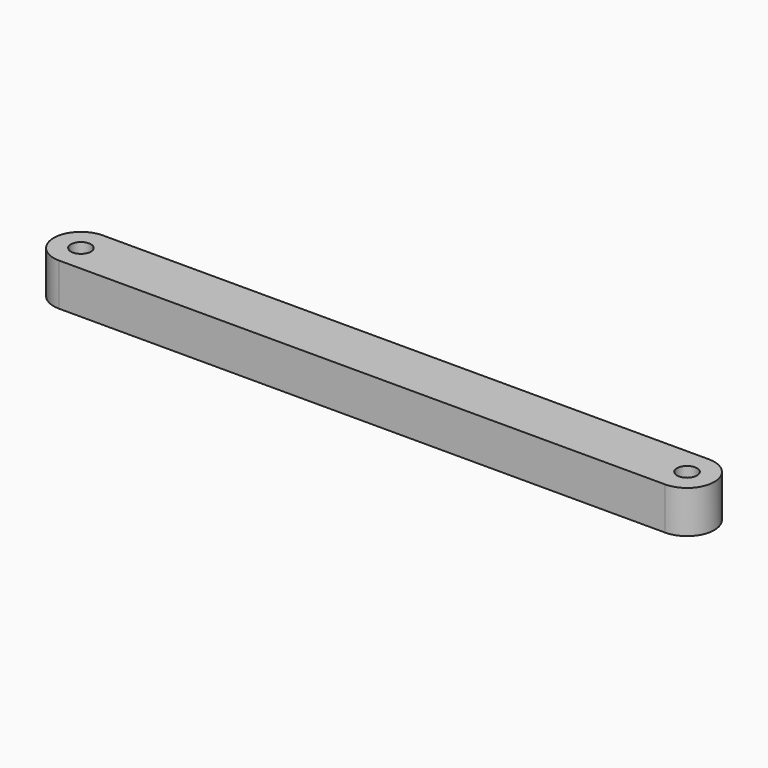
from build123d import *

# Parameters (mm, degrees)
SKETCH_R  = 1.65
PAD_DEPTH = 7


with BuildPart() as part:
    # Sketch → Pad (new body)
    with BuildSketch(Plane.XY):
        with BuildLine():
            ThreePointArc((-50, 4.5), (-54.5, 0), (-50, -4.5))
            Line((-50, -4.5), (50, -4.5))
            ThreePointArc((50, -4.5), (54.5, 0), (50, 4.5))
            Line((50, 4.5), (-50, 4.5))
        make_face()
        with Locations((-50, 0)):
            Circle(SKETCH_R, mode=Mode.SUBTRACT)
        with Locations((50, 0)):
            Circle(SKETCH_R, mode=Mode.SUBTRACT)
    extrude(amount=PAD_DEPTH)


solid = part.part
